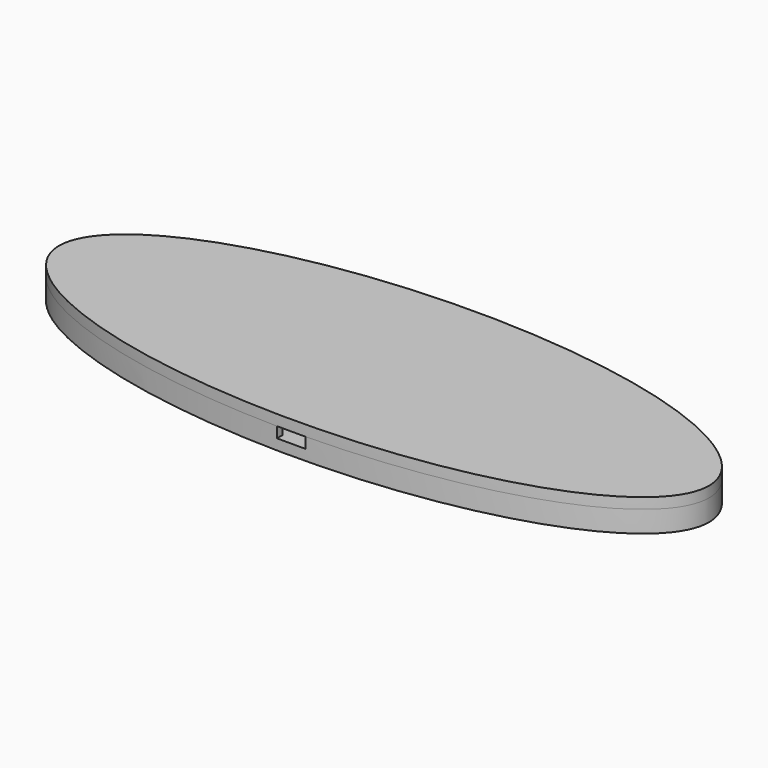
from build123d import *

# Parameters (mm, degrees)
PAD_DEPTH       = 6
POCKET_DEPTH    = 3
SKETCH002_W     = 18
SKETCH002_H     = 20
POCKET001_DEPTH = 3
SKETCH003_W     = 12
SKETCH003_H     = 5.5
SKETCH003_W_2   = 8
SKETCH003_H_2   = 2.1
POCKET002_DEPTH = 3
PAD001_DEPTH    = 3


with BuildPart() as part:
    # Sketch → Pad (new body)
    with BuildSketch(Plane.XY):
        with BuildLine():
            add(Edge.make_bspline(
                [(91.001374, 0), (91.001374, 56.291651), (-45.500687, 28.145826), (-182.002747, 0), (-45.500687, -28.145826), (91.001374, -56.291651), (91.001374, 0)],
                knots=[0, 0, 0, 2.094395, 2.094395, 4.18879, 4.18879, 6.283185, 6.283185, 6.283185], degree=2, weights=[1, 0.5, 1, 0.5, 1, 0.5, 1]))
        make_face()
    extrude(amount=PAD_DEPTH)

    # Sketch001 (on Face3 of Pad) → Pocket (cut)
    with BuildSketch(Plane.XY.offset(6)):
        with BuildLine():
            ThreePointArc((-82.8, 5), (-87.8, 0), (-82.8, -5))
            Line((-82.8, -5), (82.8, -5))
            ThreePointArc((82.8, -5), (87.8, 0), (82.8, 5))
            Line((-82.8, 5), (82.8, 5))
        make_face()
    extrude(amount=-POCKET_DEPTH, mode=Mode.SUBTRACT)

    # Sketch002 (on Face3 of Pocket) → Pocket001 (cut)
    with BuildSketch(Plane.XY.offset(6)):
        with Locations((0, -20.5)):
            Rectangle(SKETCH002_W, SKETCH002_H)
    extrude(amount=-POCKET001_DEPTH, mode=Mode.SUBTRACT)

    # Sketch003 (on Face3 of Pocket001) → Pocket002 (cut)
    with BuildSketch(Plane.XY.offset(6)):
        with Locations((0, -7.75)):
            Rectangle(SKETCH003_W, SKETCH003_H)
        with Locations((0, -31.55)):
            Rectangle(SKETCH003_W_2, SKETCH003_H_2)
    extrude(amount=-POCKET002_DEPTH, mode=Mode.SUBTRACT)

    # Sketch004 (on Face3 of Pocket002) → Pad001 (join)
    with BuildSketch(Plane.XY.offset(6)):
        with BuildLine():
            add(Edge.make_bspline(
                [(91.001374, 0), (91.001374, 56.291651), (-45.500687, 28.145826), (-182.002747, 0), (-45.500687, -28.145826), (91.001374, -56.291651), (91.001374, 0)],
                knots=[0, 0, 0, 2.094395, 2.094395, 4.18879, 4.18879, 6.283185, 6.283185, 6.283185], degree=2, weights=[1, 0.5, 1, 0.5, 1, 0.5, 1]))
        make_face()
    extrude(amount=PAD001_DEPTH)


solid = part.part
